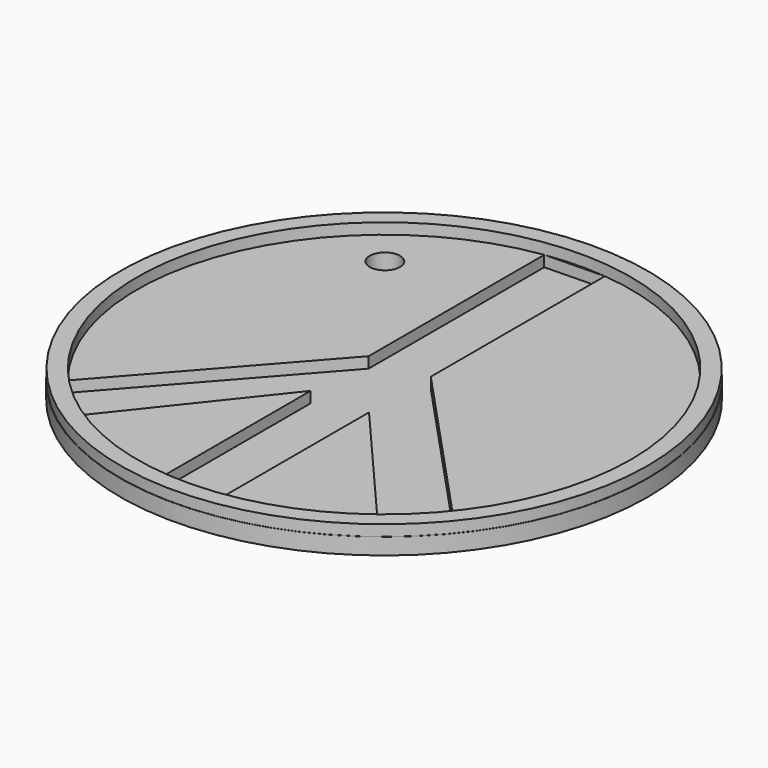
from build123d import *

# Parameters (mm, degrees)
F0_R     = 48.11598
F1_DEPTH = 3
F2_R     = 48.065002
F2_R_2   = 45.023817
F3_DEPTH = 2
F5_DEPTH = 2
F6_R     = 2.767495
F7_DEPTH = 3


with BuildPart() as f1:
    # F0 (on Top) → F1 (new body)
    with BuildSketch(Plane.XY):
        Circle(F0_R)
    extrude(amount=F1_DEPTH)

    # F2 (on face) → F3 (join)
    with BuildSketch(Plane.XY.offset(3)):
        Circle(F2_R)
        Circle(F2_R_2, mode=Mode.SUBTRACT)
    extrude(amount=F3_DEPTH)

    # F4 (on face) → F5 (cut)
    with BuildSketch(Plane.XY.offset(3)):
        Polygon((-6.218928, -8.945531), (-6.218928, -44.592253), (4.409318, -44.807388), (4.409318, -8.945531), (27.452203, -35.686421), (35.229265, -28.036458), (4.409318, 5.132682), (4.409318, 44.807388), (-6.452514, 44.559053), (-6.452514, 4.54609), (-35.229265, -28.036458), (-27.452203, -35.686421), align=None)
    extrude(amount=-F5_DEPTH, mode=Mode.SUBTRACT)

    # F6 (on face) → F7 (cut)
    with BuildSketch(Plane.XY.offset(3)):
        with Locations((-22.898344, 28.801464)):
            Circle(F6_R)
    extrude(amount=-F7_DEPTH, mode=Mode.SUBTRACT)


solid = f1.part
